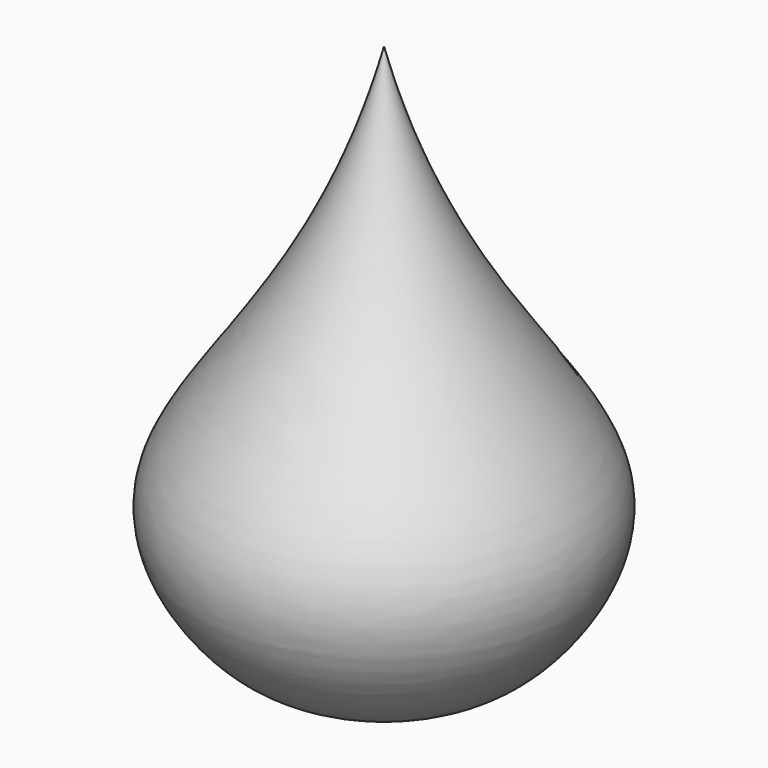
from build123d import *


with BuildPart() as f1:
    # F0 (on Front) → F1 (revolve)
    with BuildSketch(Plane.XZ):
        with BuildLine():
            Line((0, -35.6193575537), (0, 69.3470314145))
            add(Edge.make_bspline(
                [(0, 69.3470314145), (-10.4095762379, 28.7923179955), (-44.3070757548, 4.142775599), (-30.9882762483, -26.5718567435), (-15.8522924179, -36.4831974971), (0, -35.6193575537)],
                knots=[0, 0, 0, 0, 0.4623926856, 0.7066666802, 1, 1, 1, 1], degree=3))
        make_face()
    revolve(axis=Axis((0, 0, 16.8638369304), (0, 0, -1)))


solid = f1.part
